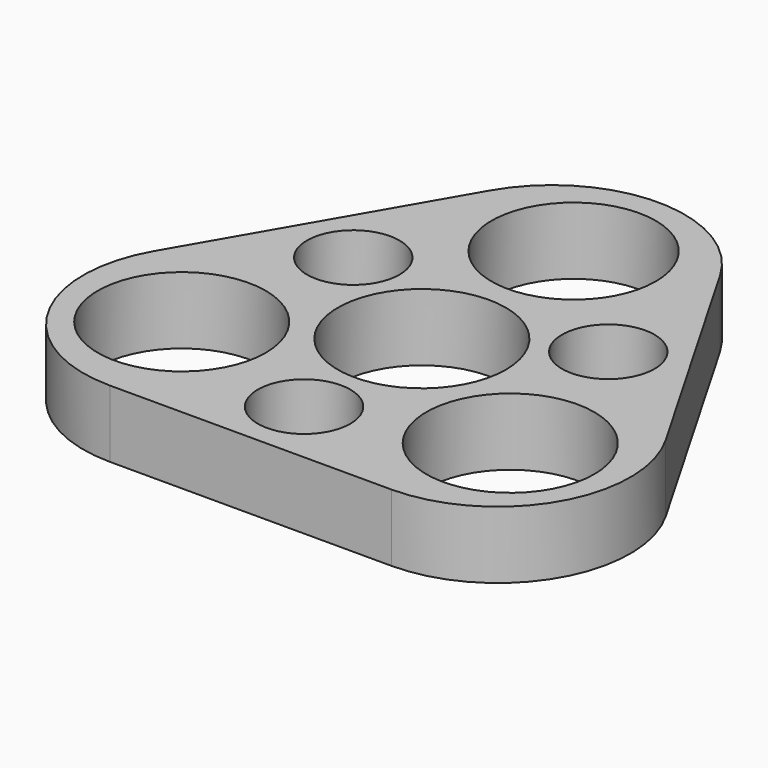
from build123d import *

# Parameters (mm, degrees)
F0_R     = 11.25
F0_R_2   = 6.197174
F0_R_3   = 11.255413
F0_R_4   = 11
F1_DEPTH = 9


with BuildPart() as f1:
    # F0 (on Top) → F1 (new body)
    with BuildSketch(Plane.XY):
        with BuildLine():
            Line((-18.857145, -28.667178), (18.857145, -28.667178))
            ThreePointArc((18.857145, -28.667178), (34.255077, -19.777178), (34.255077, -1.997178))
            Line((34.255077, -1.997178), (15.397932, 30.664356))
            ThreePointArc((15.397932, 30.664356), (0, 39.554356), (-15.397932, 30.664356))
            Line((-15.397932, 30.664356), (-34.255077, -1.997178))
            ThreePointArc((-34.255077, -1.997178), (-34.255077, -19.777178), (-18.857145, -28.667178))
        make_face()
        with Locations((-21.997045, -12.7)):
            Circle(F0_R, mode=Mode.SUBTRACT)
        with Locations((0, -19.717751)):
            Circle(F0_R_2, mode=Mode.SUBTRACT)
        Circle(F0_R, mode=Mode.SUBTRACT)
        with Locations((21.997045, -12.7)):
            Circle(F0_R_3, mode=Mode.SUBTRACT)
        with Locations((-17.076073, 9.858875)):
            Circle(F0_R_2, mode=Mode.SUBTRACT)
        with Locations((0, 25.4)):
            Circle(F0_R_4, mode=Mode.SUBTRACT)
        with Locations((17.076073, 9.858875)):
            Circle(F0_R_2, mode=Mode.SUBTRACT)
    extrude(amount=F1_DEPTH)


solid = f1.part
